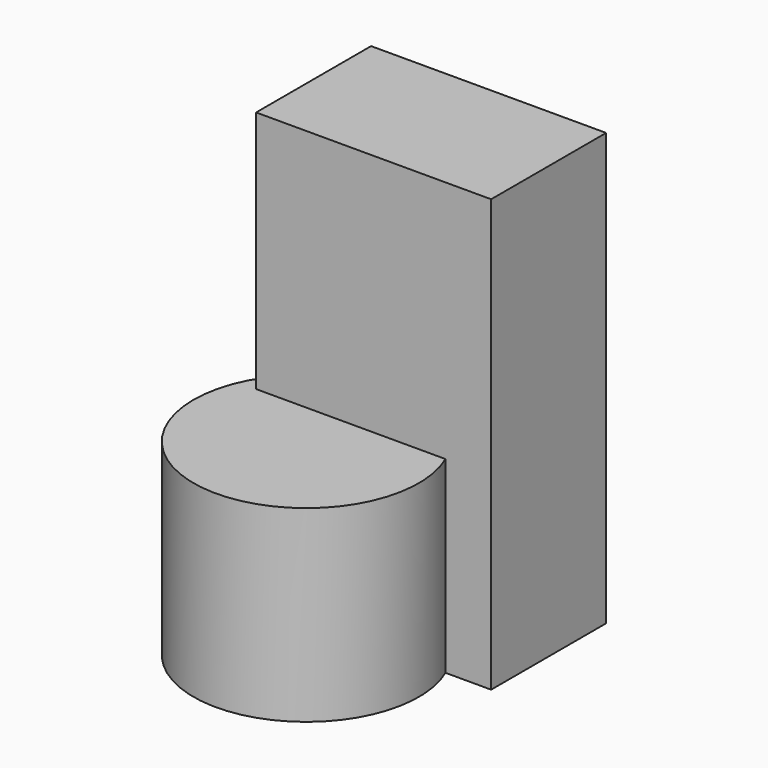
from build123d import *

# Parameters (mm, degrees)
F0_R     = 19.146623
F1_DEPTH = 31.956613
F2_W     = 39.905567
F2_H     = 24.400435
F3_DEPTH = 73.309049


with BuildPart() as f1:
    # F0 (on Top) → F1 (new body)
    with BuildSketch(Plane.XY):
        with Locations((-36.225423, 0)):
            Circle(F0_R)
    extrude(amount=F1_DEPTH)

    # F2 (on Top) → F3 (join)
    with BuildSketch(Plane.XY):
        with Locations((-30.850997, 19.793321)):
            Rectangle(F2_W, F2_H)
    extrude(amount=F3_DEPTH)


solid = f1.part
